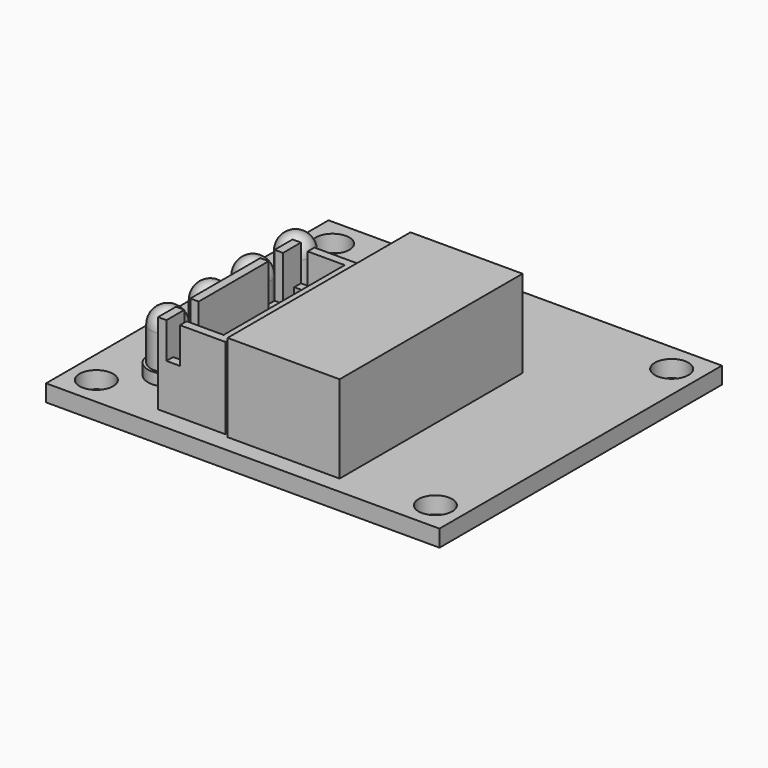
from build123d import *

# Parameters (mm, degrees)
SKETCH_W          = 35.1
SKETCH_H          = 31.5
PAD_DEPTH         = 1.5
SKETCH001_R       = 1.5
POCKET_DEPTH      = 1.501
CYLINDER001_R     = 1.75
CYLINDER001_DEPTH = 1
CYLINDER_R        = 1.5
CYLINDER_DEPTH    = 4
BOX001_W          = 4.5
BOX001_H          = 13.5
BOX001_DEPTH      = 6.5
THICKNESS_T       = 0.75
SKETCH002_W       = 1.6
SKETCH002_H       = 4
POCKET001_DEPTH   = 0.75
SKETCH003_W       = 1.2
SKETCH003_H       = 3.2
POCKET002_DEPTH   = 15.001
BOX_W             = 10
BOX_H             = 20.4
BOX_DEPTH         = 7.8


with BuildPart() as pcb_holes_pocket:
    # Sketch → Pad (new body)
    with BuildSketch(Plane.XY):
        Rectangle(SKETCH_W, SKETCH_H)
    extrude(amount=PAD_DEPTH)

    # Sketch001 → Pocket (cut, through all)
    with BuildSketch(Plane.XY.offset(1.5)):
        with Locations((-15.125, 13.175)):
            Circle(SKETCH001_R)
        with Locations((-15.125, -13.175)):
            Circle(SKETCH001_R)
        with Locations((15.125, -13.175)):
            Circle(SKETCH001_R)
        with Locations((15.125, 13.175)):
            Circle(SKETCH001_R)
    extrude(amount=-POCKET_DEPTH, mode=Mode.SUBTRACT)


with BuildPart() as led_base:
    # Cylinder001 → Cylinder001 (new body)
    with BuildSketch(Plane.XY):
        Circle(CYLINDER001_R)
    extrude(amount=CYLINDER001_DEPTH)


with BuildPart() as led_body:
    # Cylinder → Cylinder (new body)
    with BuildSketch(Plane.XY):
        Circle(CYLINDER_R)
    extrude(amount=CYLINDER_DEPTH)


with BuildPart() as led:
    # Sphere → Sphere (revolve)
    with BuildSketch(Plane(origin=(0, 0, 4), x_dir=(1, 0, 0), z_dir=(0, -1, 0))):
        with BuildLine():
            ThreePointArc((0, -1.5), (1.5, 0), (0, 1.5))
            Line((0, 1.5), (0, -1.5))
        make_face()
    revolve(axis=Axis((0, 0, 4), (0, 0, 1)))

    # Fusion: union led-base, led-body
    add(led_base.part)
    add(led_body.part)


with BuildPart() as connector_side_pocket:
    # Box001 → Box001 (new body)
    with BuildSketch(Plane(origin=(-8.25, -13.2, 2.25), x_dir=(1, 0, 0), z_dir=(0, 0, 1))):
        with Locations((2.25, 6.75)):
            Rectangle(BOX001_W, BOX001_H)
    extrude(amount=BOX001_DEPTH)

    # Thickness
    thickness_openings = [connector_side_pocket.faces().sort_by_distance(p)[0] for p in [
        (-6, -6.45, 8.75),
    ]]
    offset(amount=THICKNESS_T, openings=thickness_openings, kind=Kind.INTERSECTION)

    # Sketch002 → Pocket001 (cut)
    with BuildSketch(Plane(origin=(-9, 0, 0), x_dir=(0, -1, 0), z_dir=(-1, 0, 0))):
        with Locations((1.75, 6.75)):
            Rectangle(SKETCH002_W, SKETCH002_H)
        with Locations((11.15, 6.75)):
            Rectangle(SKETCH002_W, SKETCH002_H)
    extrude(amount=-POCKET001_DEPTH, mode=Mode.SUBTRACT)

    # Sketch003 → Pocket002 (cut, through all)
    with BuildSketch(Plane.XZ.offset(13.95)):
        with Locations((-7.65, 7.15)):
            Rectangle(SKETCH003_W, SKETCH003_H)
    extrude(amount=-POCKET002_DEPTH, mode=Mode.SUBTRACT)


with BuildPart() as pcb:
    # Clone base: copy of pcb-holes-pocket
    add(pcb_holes_pocket.part)


with BuildPart() as connector:
    # Clone001 base: copy of connector-side-pocket
    add(connector_side_pocket.part)


with BuildPart() as clone002:
    # Clone002 base: copy of led
    add(led.part)


with BuildPart() as clone002_1:
    # Clone002 placement: moved
    add(clone002.part.moved(Location((-11.7, -9.5, 1.5))))


with BuildPart() as clone003:
    # Clone003 base: copy of led
    add(led.part)


with BuildPart() as clone003_1:
    # Clone003 placement: moved
    add(clone003.part.moved(Location((-11.7, -4.75, 1.5))))


with BuildPart() as clone004:
    # Clone004 base: copy of led
    add(led.part)


with BuildPart() as clone004_1:
    # Clone004 placement: moved
    add(clone004.part.moved(Location((-11.7, 0, 1.5))))


with BuildPart() as clone005:
    # Clone005 base: copy of led
    add(led.part)


with BuildPart() as clone005_1:
    # Clone005 placement: moved
    add(clone005.part.moved(Location((-11.7, 4.75, 1.5))))


with BuildPart() as driver_board:
    # Box → Box (new body)
    with BuildSketch(Plane(origin=(-2.6, -14.2, 1.49939), x_dir=(1, 0, 0), z_dir=(0, 0, 1))):
        with Locations((5, 10.2)):
            Rectangle(BOX_W, BOX_H)
    extrude(amount=BOX_DEPTH)

    # Fusion001: union pcb, connector, Clone002, Clone003, Clone004, Clone005
    add(pcb.part)
    add(connector.part)
    add(clone002_1.part)
    add(clone003_1.part)
    add(clone004_1.part)
    add(clone005_1.part)


solid = Compound([pcb_holes_pocket.part, led.part, connector_side_pocket.part, driver_board.part])
